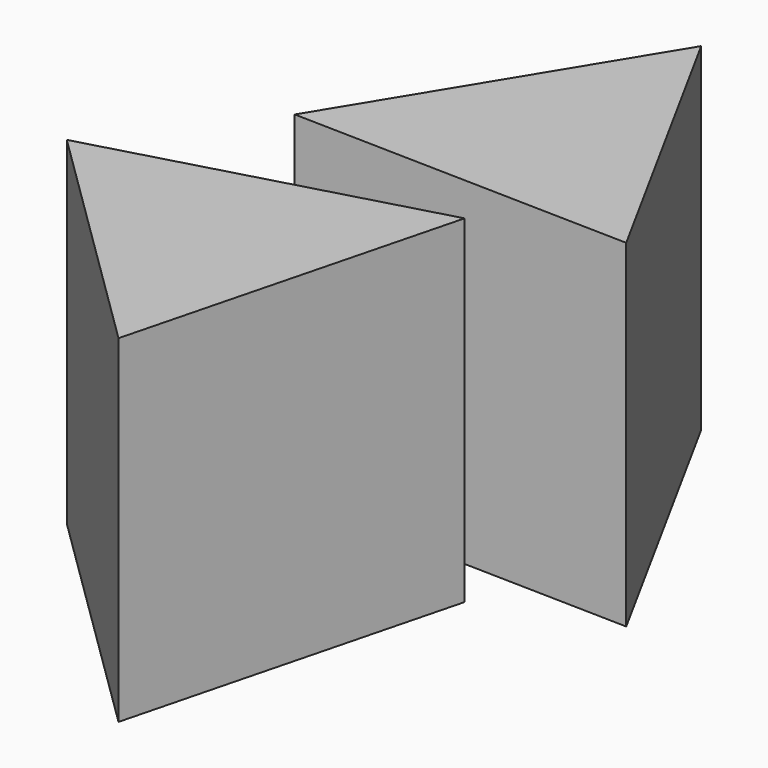
from build123d import *

# Parameters (mm, degrees)
F1_DEPTH = 25.4
F3_DEPTH = 25.4


with BuildPart() as f1:
    # F0 (on Top) → F1 (new body)
    with BuildSketch(Plane.XY):
        Polygon((-12.865908, 14.548264), (12.527321, 13.961814), (0.338587, 36.24622), align=None)
    extrude(amount=F1_DEPTH)


with BuildPart() as f3:
    # F2 (on Top) → F3 (new body)
    with BuildSketch(Plane.XY):
        Polygon((-3.174341, -14.129599), (3.174341, 10.464185), (-21.298842, 3.665414), align=None)
    extrude(amount=F3_DEPTH)


solid = Compound([f1.part, f3.part])
